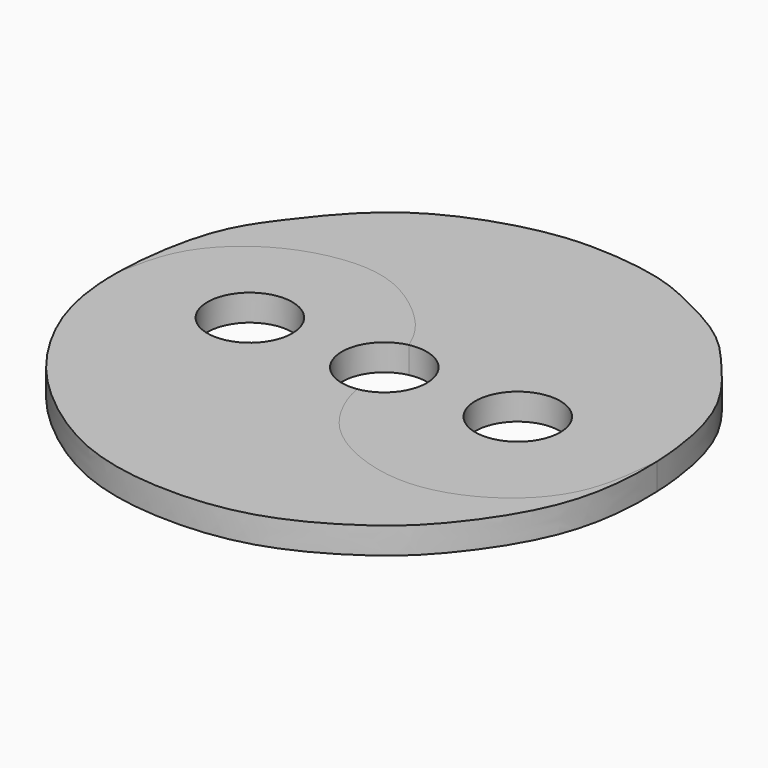
from build123d import *

# Parameters (mm, degrees)
F0_R     = 11.225
F1_DEPTH = 7
F2_DEPTH = 7


with BuildPart() as f1:
    # F0 (on Top) → F1 (new body)
    with BuildSketch(Plane.XY):
        with BuildLine():
            ThreePointArc((-2.2743157549, 10.9921841709), (7.0877158045, 8.704304089), (11.225, 0))
            ThreePointArc((11.225, 0), (8.5234495839, -7.3042064723), (1.7191768926, -11.0925675933))
            add(Edge.make_bspline(
                [(70.3064999543, 2.3059130181), (69.688940337, -4.1736338366), (68.5088349679, -16.555983317), (58.4178523774, -29.7084647635), (43.3665523548, -37.4509413909), (27.4590461497, -37.8624678668), (9.3817126018, -29.4790971388), (2.7433228822, -16.2951133091), (1.9993177969, -12.5619303302), (1.7191768926, -11.0925675933)],
                knots=[0, 0, 0, 0, 0.1626222027, 0.3117207899, 0.4627693646, 0.610964512, 0.7763363803, 0.9162954419, 1, 1, 1, 1], degree=3))
            add(Edge.make_bspline(
                [(0, 68.9659295604), (6.2970288293, 68.9340062627), (18.8502319545, 67.4171971612), (30.127542781, 62.4216250716), (45.0047453647, 54.6470734114), (54.3429573759, 43.6284533368), (66.7587849583, 28.8459487139), (69.8898769291, 11.5938477678), (70.3064999543, 2.3059130181)],
                knots=[0, 0, 0, 0, 0.0453323962, 0.0825352779, 0.1246132877, 0.1643999595, 0.2096257251, 0.2637953005, 0.2637953005, 0.2637953005, 0.2637953005], degree=3))
            add(Edge.make_bspline(
                [(-69.5538357832, -0.9642383084), (-69.4134820504, 7.8456043337), (-66.6581532146, 25.7982735531), (-57.3367791041, 38.9561969702), (-42.3062281591, 57.8171329129), (-18.5422155614, 67.3503172445), (-6.2643904795, 68.9976873953), (0, 68.9659295604)],
                knots=[0.7557592261, 0.7557592261, 0.7557592261, 0.7557592261, 0.8096114354, 0.8516894469, 0.9023936377, 0.9549025677, 1, 1, 1, 1], degree=3))
            add(Edge.make_bspline(
                [(-69.5538357832, -0.9642383084), (-68.5371832352, 4.4759175209), (-66.4527316619, 15.6292908022), (-52.37072043, 28.7904321619), (-34.6519555327, 33.6690114797), (-19.9445032101, 31.0943943092), (-6.1644672972, 19.4751509403), (-3.4219712027, 13.5642790905), (-2.2743157549, 10.9921841709)],
                knots=[0, 0, 0, 0, 0.1722775775, 0.354055793, 0.533027763, 0.6957265012, 0.8720189459, 1, 1, 1, 1], degree=3))
        make_face()
        with Locations((35.3169254959, 0)):
            Circle(F0_R, mode=Mode.SUBTRACT)
    extrude(amount=F1_DEPTH)


with BuildPart() as f2:
    # F0 (on Top) → F2 (new body)
    with BuildSketch(Plane.XY):
        with BuildLine():
            ThreePointArc((1.7191768926, -11.0925675933), (-11.0458639278, -1.9973770524), (-2.2743157549, 10.9921841709))
            add(Edge.make_bspline(
                [(-69.5538357832, -0.9642383084), (-68.5371832352, 4.4759175209), (-66.4527316619, 15.6292908022), (-52.37072043, 28.7904321619), (-34.6519555327, 33.6690114797), (-19.9445032101, 31.0943943092), (-6.1644672972, 19.4751509403), (-3.4219712027, 13.5642790905), (-2.2743157549, 10.9921841709)],
                knots=[0, 0, 0, 0, 0.1722775775, 0.354055793, 0.533027763, 0.6957265012, 0.8720189459, 1, 1, 1, 1], degree=3))
            add(Edge.make_bspline(
                [(70.3064999543, 2.3059130181), (70.7318199679, -7.1759069832), (68.9407316567, -25.4256404213), (53.7257496841, -47.0139559988), (43.0168677627, -56.9582138939), (23.3745931523, -68.805627227), (0.3183816463, -72.0654928508), (-25.6192039301, -68.314082709), (-47.072663084, -52.7376612264), (-58.4677018182, -39.4295905069), (-67.7053823851, -22.2995617055), (-69.6809128473, -8.9407197078), (-69.5538357832, -0.9642383084)],
                knots=[0.2637953005, 0.2637953005, 0.2637953005, 0.2637953005, 0.3190956635, 0.3715866234, 0.4118492186, 0.4608846559, 0.5114711621, 0.5647794098, 0.6180156237, 0.6618618297, 0.7070011309, 0.7557592261, 0.7557592261, 0.7557592261, 0.7557592261], degree=3))
            add(Edge.make_bspline(
                [(70.3064999543, 2.3059130181), (69.688940337, -4.1736338366), (68.5088349679, -16.555983317), (58.4178523774, -29.7084647635), (43.3665523548, -37.4509413909), (27.4590461497, -37.8624678668), (9.3817126018, -29.4790971388), (2.7433228822, -16.2951133091), (1.9993177969, -12.5619303302), (1.7191768926, -11.0925675933)],
                knots=[0, 0, 0, 0, 0.1626222027, 0.3117207899, 0.4627693646, 0.610964512, 0.7763363803, 0.9162954419, 1, 1, 1, 1], degree=3))
        make_face()
        with Locations((-35.5704650283, 0)):
            Circle(F0_R, mode=Mode.SUBTRACT)
    extrude(amount=F2_DEPTH)


solid = Compound([f1.part, f2.part])
